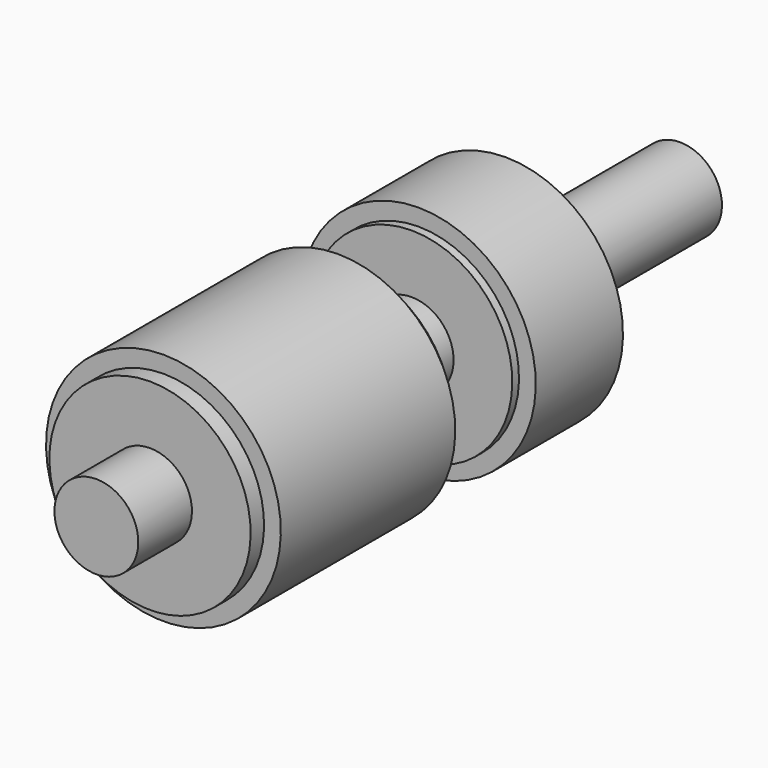
from build123d import *

# Parameters (mm, degrees)
F2_W = 0.2
F2_H = 0.2


with BuildPart() as f1:
    # F0 (on Right) → F1 (revolve)
    with BuildSketch(Plane.YZ):
        Polygon((-0.8, 0.5), (-0.8, 0), (7.9, 0), (7.9, 0.5), (5.4, 0.5), (5.4, 1.2), (3.9, 1.2), (3.9, 0.5), (3, 0.5), (3, 1.4), (0, 1.4), (0, 0.5), align=None)
    revolve(axis=Axis((0, 3.55, 0), (0, -1, 0)))

    # F2 (on Right) → F3 (revolve, cut)
    with BuildSketch(Plane.YZ):
        with Locations((2.9, 1.3)):
            Rectangle(F2_W, F2_H)
        with Locations((0.1, 1.3)):
            Rectangle(F2_W, F2_H)
    revolve(axis=Axis((0, 1.5, 0), (0, 1, 0)), mode=Mode.SUBTRACT)

    # F4 (on Right) → F5 (revolve)
    with BuildSketch(Plane.YZ):
        Polygon((4, 1.4), (4, 1.2), (4.9, 1.2), (5.3, 1.2), (5.3, 1.4), align=None)
    revolve(axis=Axis((0, 4.65, 0), (0, 1, 0)))


solid = f1.part
